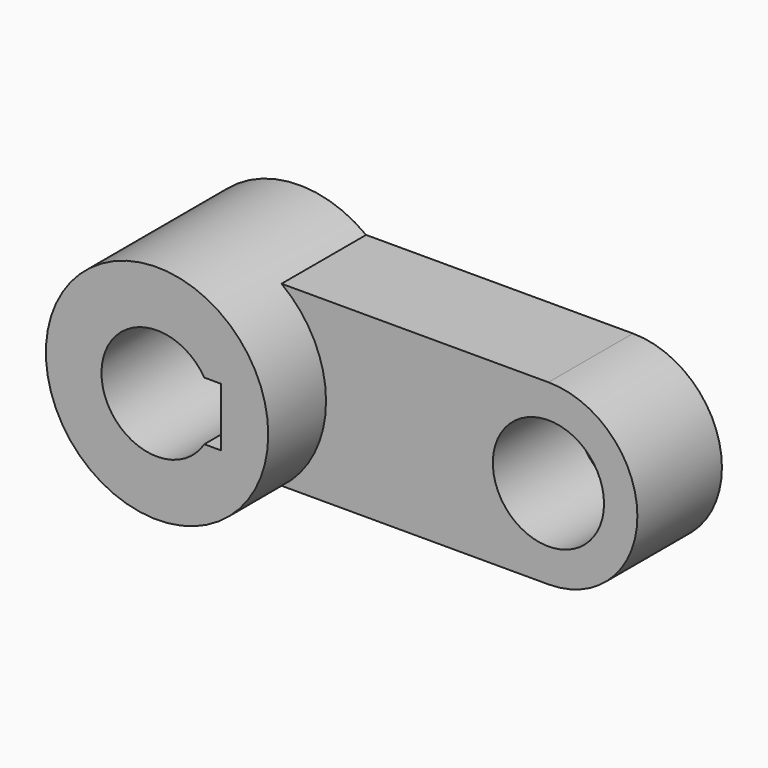
from build123d import *

# Parameters (mm, degrees)
F0_R     = 15.875
F1_DEPTH = 30.1752
F2_R     = 31.75
F3_DEPTH = 50.8


with BuildPart() as f1:
    # F0 (on Front) → F1 (new body)
    with BuildSketch(Plane.XZ):
        with BuildLine():
            ThreePointArc((-39.171085, 25.4), (-42.523022, 11.200968), (-51.871085, 0))
            Line((-51.871085, 0), (24.328915, 0))
            ThreePointArc((24.328915, 0), (49.728915, 25.4), (24.328915, 50.8))
            Line((24.328915, 50.8), (-51.871085, 50.8))
            ThreePointArc((-51.871085, 50.8), (-42.523022, 39.599032), (-39.171085, 25.4))
        make_face()
        with Locations((24.328915, 25.4)):
            Circle(F0_R, mode=Mode.SUBTRACT)
    extrude(amount=F1_DEPTH)

    # F2 (on Front) → F3 (join)
    with BuildSketch(Plane.XZ):
        with Locations((-70.921085, 25.4)):
            Circle(F2_R)
        with BuildLine():
            ThreePointArc((-57.433685, 17.027087), (-86.796085, 25.4), (-57.433685, 33.772913))
            Line((-57.433685, 33.772913), (-52.658485, 33.772913))
            Line((-52.658485, 33.772913), (-52.658485, 17.027087))
            Line((-52.658485, 17.027087), (-57.433685, 17.027087))
        make_face(mode=Mode.SUBTRACT)
    extrude(amount=F3_DEPTH)


solid = f1.part
